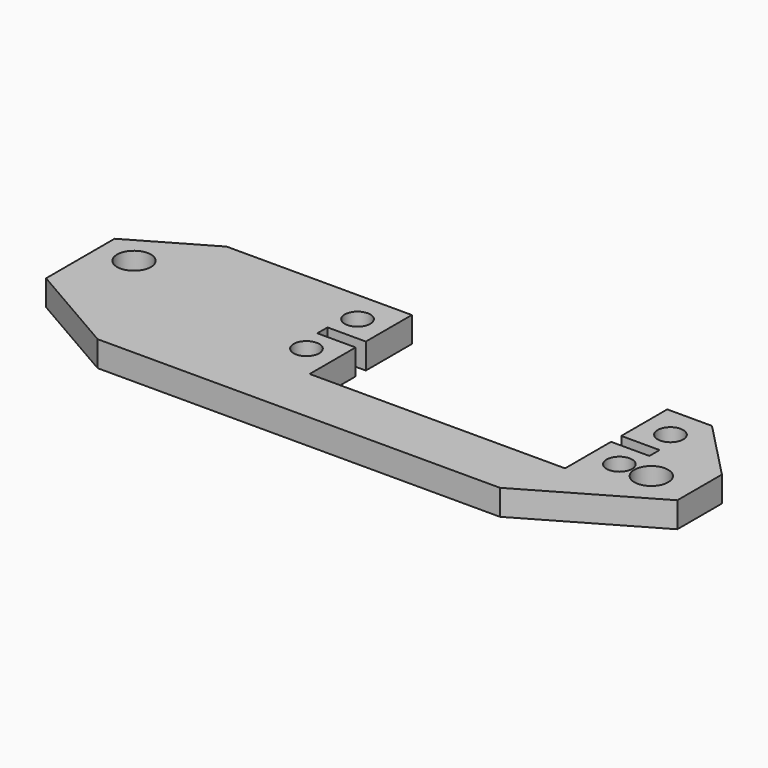
from build123d import *

# Parameters (mm, degrees)
SKETCH005_R   = 2
SKETCH005_R_2 = 2.65
PAD_DEPTH     = 4


with BuildPart() as part:
    # Sketch005 → Pad (new body)
    with BuildSketch(Plane.XY.offset(-3)):
        Polygon((-38, 10), (-9, 10), (-9, 1), (-15, 1), (-15, -1), (-9, -1), (-9, -10), (31, -10), (31, -1), (37, -1), (37, 1), (31, 1), (31, 10), (38, 10), (47, 0.7), (47, -8.030345), (28, -19), (-35, -19), (-50, -10.339746), (-50, 3.07), align=None)
        with Locations((-13.5, 5)):
            Circle(SKETCH005_R, mode=Mode.SUBTRACT)
        with Locations((-13.5, -5)):
            Circle(SKETCH005_R, mode=Mode.SUBTRACT)
        with Locations((35.5, 5)):
            Circle(SKETCH005_R, mode=Mode.SUBTRACT)
        with Locations((35.5, -5)):
            Circle(SKETCH005_R, mode=Mode.SUBTRACT)
        with Locations((-44.5, 0)):
            Circle(SKETCH005_R_2, mode=Mode.SUBTRACT)
        with Locations((40.5, -5)):
            Circle(SKETCH005_R_2, mode=Mode.SUBTRACT)
    extrude(amount=PAD_DEPTH)


solid = part.part
